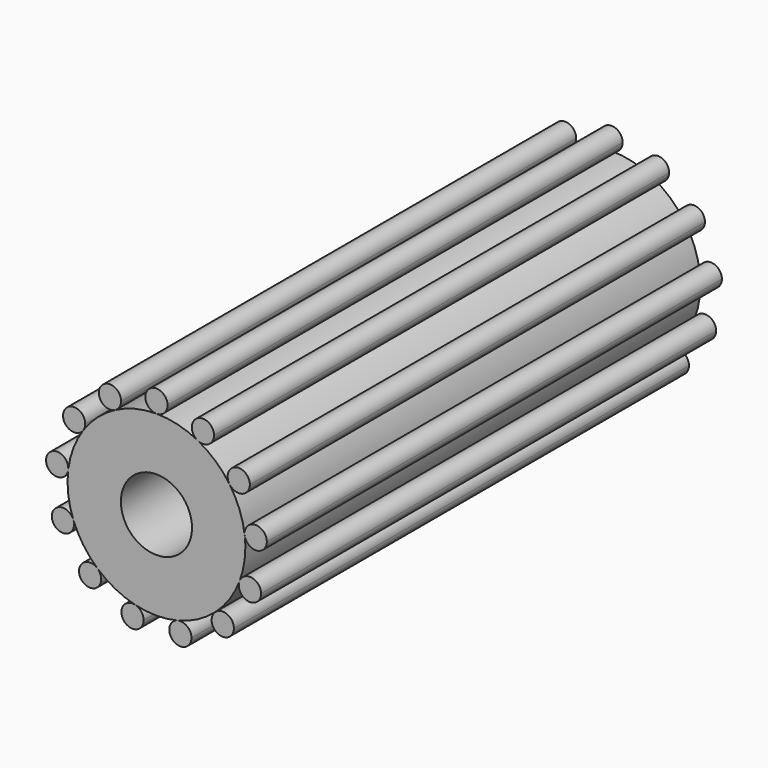
from build123d import *

# Parameters (mm, degrees)
F1_DEPTH = 203.2
F2_R     = 12.7
F3_DEPTH = 203.2


with BuildPart() as f1:
    # F0 (on Front) → F1 (new body)
    with BuildSketch(Plane.XZ):
        with BuildLine():
            ThreePointArc((29.6867657005, -11.2587051762), (31.2299320444, -5.7230974572), (31.75, 0))
            ThreePointArc((31.75, 0), (31.6920738515, 1.9170172122), (31.5185067722, 3.8270394371))
            ThreePointArc((31.5185067722, 3.8270394371), (29.6867657186, 11.2587051285), (26.1297376926, 18.0360557804))
            ThreePointArc((26.1297376926, 18.0360557804), (21.0541443733, 23.7652162773), (14.7549607284, 28.1132288061))
            ThreePointArc((14.7549607284, 28.1132288061), (7.5982723581, 30.8274026991), (1.69e-08, 31.75))
            ThreePointArc((1.69e-08, 31.75), (-7.5982724069, 30.8274026871), (-14.7549608473, 28.1132287437))
            ThreePointArc((-14.7549608473, 28.1132287437), (-21.0541444784, 23.7652161842), (-26.1297377758, 18.0360556599))
            ThreePointArc((-26.1297377758, 18.0360556599), (-29.6867657065, 11.2587051603), (-31.5185067463, 3.8270396499))
            ThreePointArc((-31.5185067463, 3.8270396499), (-31.51850677, -3.827039455), (-29.6867657889, -11.2587049429))
            ThreePointArc((-29.6867657889, -11.2587049429), (-26.1297378593, -18.036055539), (-21.0541445312, -23.7652161374))
            ThreePointArc((-21.0541445312, -23.7652161374), (-14.7549606638, -28.11322884), (-7.5982720631, -30.8274027718))
            ThreePointArc((-7.5982720631, -30.8274027718), (1.343e-07, -31.75), (7.598272324, -30.8274027075))
            ThreePointArc((7.598272324, -30.8274027075), (14.7549607189, -28.1132288111), (21.0541444233, -23.765216233))
            ThreePointArc((21.0541444233, -23.765216233), (26.1297377475, -18.0360557009), (29.6867657005, -11.2587051762))
        make_face()
    extrude(amount=F1_DEPTH)

    # F2 (on face) → F3 (cut)
    with BuildSketch(Plane.XZ.offset(203.2)):
        Circle(F2_R)
    extrude(amount=-F3_DEPTH, mode=Mode.SUBTRACT)


with BuildPart() as f1b:
    # F0 (on Front) → F1, piece 2 (new body)
    with BuildSketch(Plane.XZ):
        with BuildLine():
            ThreePointArc((37.3663614184, -12.6660433091), (34.1129985931, -8.7623018021), (29.6867657005, -11.2587051762))
            ThreePointArc((29.6867657005, -11.2587051762), (32.6822242437, -16.569784816), (37.3663614184, -12.6660433091))
        make_face()
    extrude(amount=F1_DEPTH)


with BuildPart() as f1c:
    # F0 (on Front) → F1, piece 3 (new body)
    with BuildSketch(Plane.XZ):
        with BuildLine():
            ThreePointArc((27.654662449, -26.7358682862), (25.3147382854, -23.1167657791), (21.0541444233, -23.765216233))
            ThreePointArc((21.0541444233, -23.765216233), (22.0570866127, -30.3549707934), (27.654662449, -26.7358682862))
        make_face()
    extrude(amount=F1_DEPTH)


with BuildPart() as f1d:
    # F0 (on Front) → F1, piece 4 (new body)
    with BuildSketch(Plane.XZ):
        with BuildLine():
            ThreePointArc((12.5168063838, -34.6808280412), (10.9956594026, -31.5566935971), (7.598272324, -30.8274027075))
            ThreePointArc((7.598272324, -30.8274027075), (6.100453365, -37.8049624853), (12.5168063838, -34.6808280412))
        make_face()
    extrude(amount=F1_DEPTH)


with BuildPart() as f1e:
    # F0 (on Front) → F1, piece 5 (new body)
    with BuildSketch(Plane.XZ):
        with BuildLine():
            ThreePointArc((-4.5793063838, -34.6808280412), (-5.4239218568, -32.2332251281), (-7.5982720631, -30.8274027718))
            ThreePointArc((-7.5982720631, -30.8274027718), (-11.6721909107, -37.1284309542), (-4.5793063838, -34.6808280412))
        make_face()
    extrude(amount=F1_DEPTH)


with BuildPart() as f1f:
    # F0 (on Front) → F1, piece 6 (new body)
    with BuildSketch(Plane.XZ):
        with BuildLine():
            ThreePointArc((-19.717162449, -26.7358682862), (-20.0668099715, -25.1070423841), (-21.0541445312, -23.7652161374))
            ThreePointArc((-21.0541445312, -23.7652161374), (-27.3050149266, -28.3646941883), (-19.717162449, -26.7358682862))
        make_face()
    extrude(amount=F1_DEPTH)


with BuildPart() as f1g:
    # F0 (on Front) → F1, piece 7 (new body)
    with BuildSketch(Plane.XZ):
        with BuildLine():
            ThreePointArc((-29.4288614184, -12.6660433091), (-29.493869934, -11.9506560117), (-29.6867657889, -11.2587049429))
            ThreePointArc((-29.6867657889, -11.2587049429), (-37.3013529028, -13.3814306064), (-29.4288614184, -12.6660433091))
        make_face()
    extrude(amount=F1_DEPTH)


with BuildPart() as f1h:
    # F0 (on Front) → F1, piece 8 (new body)
    with BuildSketch(Plane.XZ):
        with BuildLine():
            ThreePointArc((-31.4895700967, 4.3054195479), (-39.4198293291, 4.5450466835), (-31.5185067463, 3.8270396499))
            ThreePointArc((-31.5185067463, 3.8270396499), (-31.4968108643, 4.0657924123), (-31.4895700967, 4.3054195479))
        make_face()
    extrude(amount=F1_DEPTH)


with BuildPart() as f1i:
    # F0 (on Front) → F1, piece 9 (new body)
    with BuildSketch(Plane.XZ):
        with BuildLine():
            ThreePointArc((-25.4272049599, 20.2905626723), (-33.18500339, 21.4712779456), (-26.1297377758, 18.0360556599))
            ThreePointArc((-26.1297377758, 18.0360556599), (-25.6069065298, 19.109847399), (-25.4272049599, 20.2905626723))
        make_face()
    extrude(amount=F1_DEPTH)


with BuildPart() as f1j:
    # F0 (on Front) → F1, piece 10 (new body)
    with BuildSketch(Plane.XZ):
        with BuildLine():
            ThreePointArc((-12.6305808014, 31.6273824163), (-19.9957126865, 33.6805669315), (-14.7549608473, 28.1132287437))
            ThreePointArc((-14.7549608473, 28.1132287437), (-13.2029489164, 29.5741979011), (-12.6305808014, 31.6273824163))
        make_face()
    extrude(amount=F1_DEPTH)


with BuildPart() as f1k:
    # F0 (on Front) → F1, piece 11 (new body)
    with BuildSketch(Plane.XZ):
        with BuildLine():
            ThreePointArc((3.96875, 35.71875), (-2.8063300438, 38.5250800319), (1.69e-08, 31.75))
            ThreePointArc((1.69e-08, 31.75), (2.8063300438, 32.9124199681), (3.96875, 35.71875))
        make_face()
    extrude(amount=F1_DEPTH)


with BuildPart() as f1l:
    # F0 (on Front) → F1, piece 12 (new body)
    with BuildSketch(Plane.XZ):
        with BuildLine():
            ThreePointArc((20.5680808014, 31.6273824163), (14.5461463437, 35.0237643361), (14.7549607284, 28.1132288061))
            ThreePointArc((14.7549607284, 28.1132288061), (18.6525152592, 28.2310004965), (20.5680808014, 31.6273824163))
        make_face()
    extrude(amount=F1_DEPTH)


with BuildPart() as f1m:
    # F0 (on Front) → F1, piece 13 (new body)
    with BuildSketch(Plane.XZ):
        with BuildLine():
            ThreePointArc((33.3647049599, 20.2905626723), (28.2152397565, 24.0796111242), (26.1297376926, 18.0360557804))
            ThreePointArc((26.1297376926, 18.0360557804), (30.5766701633, 16.5015142204), (33.3647049599, 20.2905626723))
        make_face()
    extrude(amount=F1_DEPTH)


with BuildPart() as f1n:
    # F0 (on Front) → F1, piece 14 (new body)
    with BuildSketch(Plane.XZ):
        with BuildLine():
            ThreePointArc((39.4270700967, 4.3054195479), (35.2186928541, 8.2669287738), (31.5185067722, 3.8270394371))
            ThreePointArc((31.5185067722, 3.8270394371), (35.6979473393, 0.3439103219), (39.4270700967, 4.3054195479))
        make_face()
    extrude(amount=F1_DEPTH)


solid = Compound([f1.part, f1b.part, f1c.part, f1d.part, f1e.part, f1f.part, f1g.part, f1h.part, f1i.part, f1j.part, f1k.part, f1l.part, f1m.part, f1n.part])
